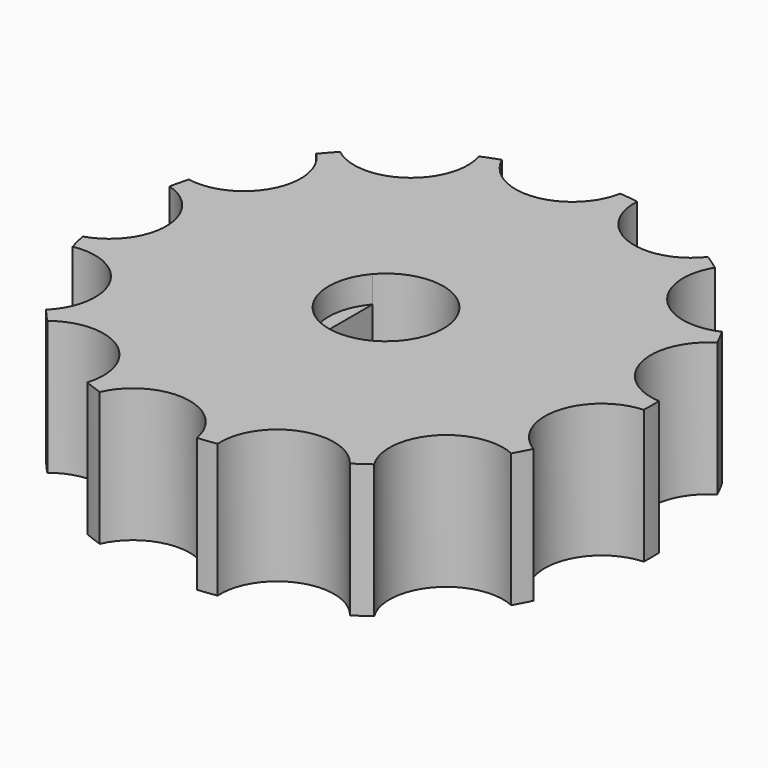
from build123d import *

# Parameters (mm, degrees)
SKETCH003_R             = 11.914086
PAD001_DEPTH            = 6
SKETCH004_R             = 2.55
POCKET001_DEPTH         = 74.457219
POLARPATTERN_COUNT      = 13
SKETCH062_R             = 2.575
POCKET014_DEPTH         = 1.2
BODY001_PLACEMENT_ANGLE = 90


with BuildPart() as part:
    # Sketch003 → Pad001 (new body)
    with BuildSketch(Plane.XY):
        Circle(SKETCH003_R)
        with BuildLine():
            ThreePointArc((-1.681703, 1.95), (0, -2.575), (1.681703, 1.95))
            Line((-1.681703, 1.95), (1.681703, 1.95))
        make_face(mode=Mode.SUBTRACT)
    extrude(amount=PAD001_DEPTH)

    # Sketch004 (on Face5 of Pad001) → Pocket001 (cut, through all)
    with BuildSketch(Plane.XY.offset(6)):
        with Locations((0, 12.414086)):
            Circle(SKETCH004_R)
    pocket001 = extrude(amount=-POCKET001_DEPTH, mode=Mode.SUBTRACT)

    # PolarPattern: Pocket001 ×13 about axis
    polarpattern_axis = Axis((0, 0, 6), (0, 0, 1))
    for i in range(1, POLARPATTERN_COUNT):
        add(pocket001.rotate(polarpattern_axis, i * 360 / POLARPATTERN_COUNT), mode=Mode.SUBTRACT)

    # Sketch062 (on Face4 of PolarPattern) → Pocket014 (cut)
    with BuildSketch(Plane.XY.offset(6)):
        Circle(SKETCH062_R)
    extrude(amount=-POCKET014_DEPTH, mode=Mode.SUBTRACT)


with BuildPart() as part_1:
    # Body001 placement: moved
    add(part.part.moved(Location((-5.85, -50.15, 2.4))).rotate(Axis((-5.85, -50.15, 2.4), (0, 0, 1)), BODY001_PLACEMENT_ANGLE))


solid = part_1.part
